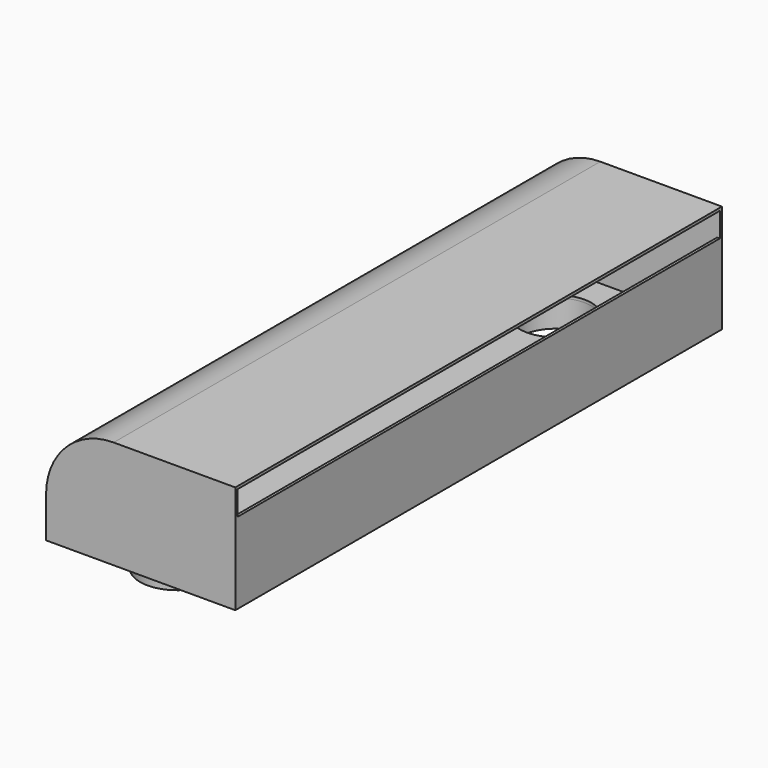
from build123d import *

# Parameters (mm, degrees)
F1_DEPTH = 225
F2_T     = -2
F3_W     = 2
F3_H     = 58
F4_DEPTH = 446
F5_R     = 26.5
F6_DEPTH = 25.4
F7_R     = 27.5
F7_R_2   = 26.5
F8_DEPTH = 20


with BuildPart() as f1:
    # F0 (on Front) → F1 (new body, symmetric)
    with BuildSketch(Plane.XZ):
        with BuildLine():
            Line((0, 30), (0, 0))
            Line((0, 0), (140, 0))
            Line((140, 0), (140, 80))
            Line((140, 80), (50, 80))
            ThreePointArc((50, 80), (14.6446609407, 65.3553390593), (0, 30))
        make_face()
    extrude(amount=F1_DEPTH, both=True)

    # F2
    f2_openings = [f1.faces().sort_by_distance(p)[0] for p in [
        (140, 0, 40),
    ]]
    offset(amount=F2_T, openings=f2_openings)

    # F3 (on face) → F4 (join, through all)
    with BuildSketch(Plane.XZ.offset(-223)):
        with Locations((139, 31)):
            Rectangle(F3_W, F3_H)
    extrude(amount=F4_DEPTH)

    # F5 (on face) → F6 (cut)
    with BuildSketch(Plane(origin=(0, 0, 0), x_dir=(1, 0, 0), z_dir=(0, 0, -1))):
        with Locations((57, 175)):
            Circle(F5_R)
        with Locations((56.9928, -175)):
            Circle(F5_R)
    extrude(amount=-F6_DEPTH, mode=Mode.SUBTRACT)

    # F7 (on face) → F8 (join)
    with BuildSketch(Plane(origin=(0, 0, 0), x_dir=(1, 0, 0), z_dir=(0, 0, -1))):
        with Locations((57, 175)):
            Circle(F7_R)
        with Locations((57, 175)):
            Circle(F7_R_2, mode=Mode.SUBTRACT)
        with Locations((56.9928, -175)):
            Circle(F7_R)
        with Locations((56.9928, -175)):
            Circle(F7_R_2, mode=Mode.SUBTRACT)
    extrude(amount=F8_DEPTH)


solid = f1.part
